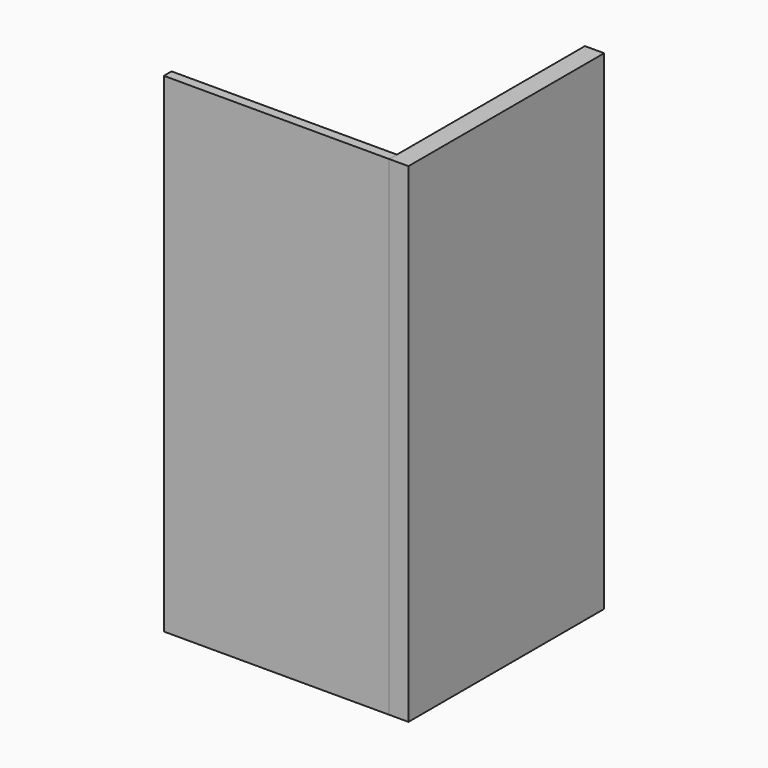
from build123d import *

# Parameters (mm, degrees)
F0_W     = 6
F0_H     = 3
F0_W_2   = 70.2
F1_DEPTH = 152.4
F0_H_2   = 73.2
F2_DEPTH = 152.4


with BuildPart() as f1:
    # F0 (on Top) → F1 (new body)
    with BuildSketch(Plane.XY):
        with Locations((-3, 1.5)):
            Rectangle(F0_W, F0_H)
        with Locations((-41.1, 1.5)):
            Rectangle(F0_W_2, F0_H)
    extrude(amount=F1_DEPTH)


with BuildPart() as f2:
    # F0 (on Top) → F2 (new body)
    with BuildSketch(Plane.XY):
        with Locations((-3, 39.6)):
            Rectangle(F0_W, F0_H_2)
        with Locations((-3, 1.5)):
            Rectangle(F0_W, F0_H)
    extrude(amount=F2_DEPTH)


solid = Compound([f1.part, f2.part])
